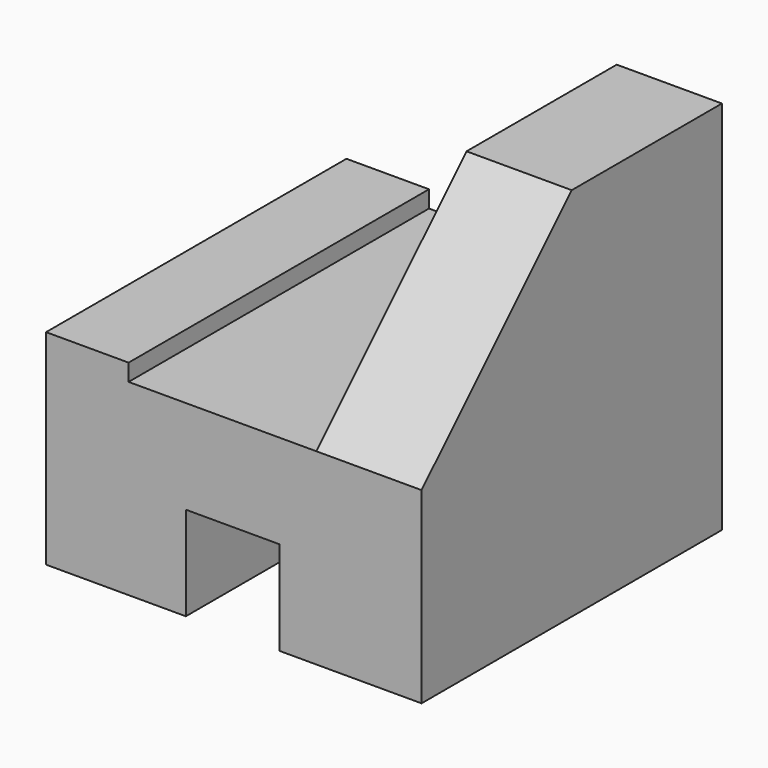
from build123d import *

# Parameters (mm, degrees)
F0_W     = 101.6
F0_H     = 101.6
F1_DEPTH = 101.6
F2_W     = 25.4
F2_H     = 25.4
F3_DEPTH = 232.918
F4_W     = 22.3325428724
F4_H     = 46.2064941585
F5_DEPTH = 115.824
F7_DEPTH = 154.94
F9_DEPTH = 54.356


with BuildPart() as f1:
    # F0 (on Top) → F1 (new body)
    with BuildSketch(Plane.XY):
        with Locations((-50.8, -50.8)):
            Rectangle(F0_W, F0_H)
    extrude(amount=F1_DEPTH)

    # F2 (on face) → F3 (cut)
    with BuildSketch(Plane.XZ.offset(101.6)):
        with Locations((-51.0816488743, 12.7)):
            Rectangle(F2_W, F2_H)
    extrude(amount=-F3_DEPTH, mode=Mode.SUBTRACT)

    # F4 (on face) → F5 (cut)
    with BuildSketch(Plane.XZ.offset(101.6)):
        with Locations((-90.4337285638, 78.4967529207)):
            Rectangle(F4_W, F4_H)
    extrude(amount=-F5_DEPTH, mode=Mode.SUBTRACT)

    # F6 (on face) → F7 (cut)
    with BuildSketch(Plane.XZ.offset(101.6)):
        Polygon((-28.4674571276, 101.6), (-79.2674571276, 101.6), (-79.2674571276, 55.3935058415), (-79.2674571276, 50.8), (-28.4674571276, 50.8), align=None)
    extrude(amount=-F7_DEPTH, mode=Mode.SUBTRACT)

    # F8 (on face) → F9 (cut)
    with BuildSketch(Plane.YZ):
        Polygon((-101.6, 101.6), (-101.6, 50.8), (-50.8, 101.6), align=None)
    extrude(amount=-F9_DEPTH, mode=Mode.SUBTRACT)


solid = f1.part
